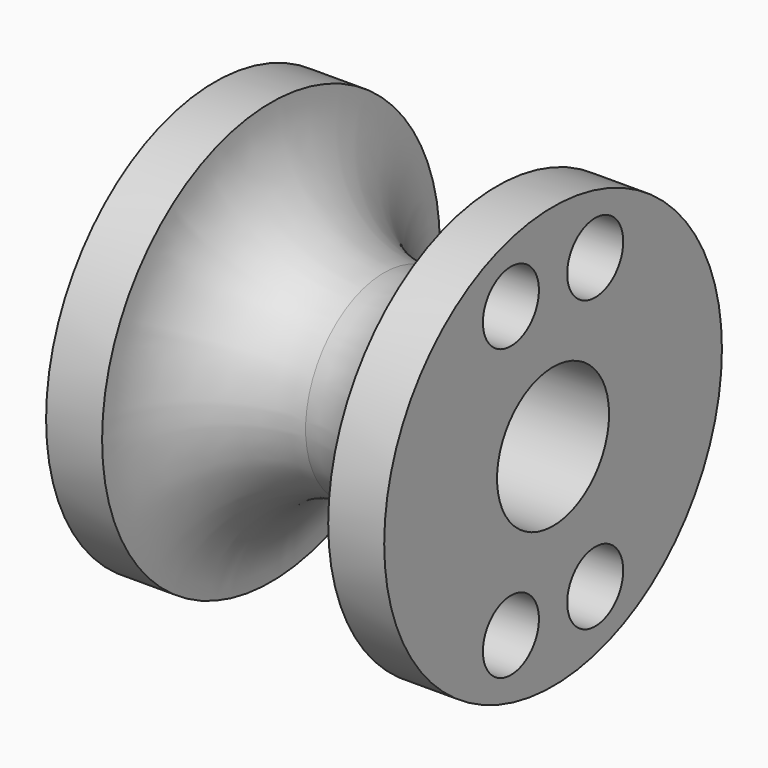
from build123d import *

# Parameters (mm, degrees)
F2_R     = 2.5
F3_DEPTH = 4


with BuildPart() as f1:
    # F0 (on Top) → F1 (revolve)
    with BuildSketch(Plane.XY):
        with BuildLine():
            ThreePointArc((8.07229, 15.07229), (5.707971, 9.364319), (0, 7))
            ThreePointArc((0, 7), (-5.707971, 9.364319), (-8.07229, 15.07229))
            Line((-8.07229, 15.07229), (-12.07229, 15.07229))
            Line((-12.07229, 15.07229), (-12.07229, 5))
            Line((-12.07229, 5), (12.07229, 5))
            Line((12.07229, 5), (12.07229, 15.07229))
            Line((12.07229, 15.07229), (8.07229, 15.07229))
        make_face()
    revolve(axis=Axis((3.33288, 0, 0), (1, 0, 0)))

    # F2 (on face) → F3 (cut)
    with BuildSketch(Plane.YZ.offset(12.07229)):
        with Locations((3.762222, 10.336619)):
            Circle(F2_R)
        with Locations((-3.762222, 10.336619)):
            Circle(F2_R)
        with Locations((3.762222, -10.336619)):
            Circle(F2_R)
        with Locations((-3.762222, -10.336619)):
            Circle(F2_R)
    extrude(amount=-F3_DEPTH, mode=Mode.SUBTRACT)


solid = f1.part
